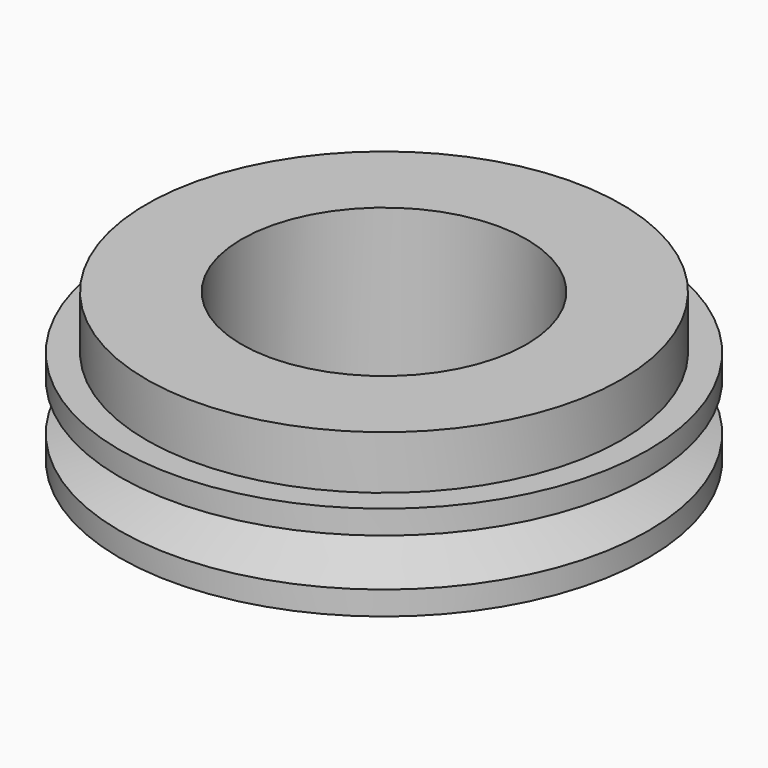
from build123d import *

# Parameters (mm, degrees)
F0_R     = 44.5
F0_R_2   = 40
F0_R_3   = 24
F1_DEPTH = 16
F2_DEPTH = 25


with BuildPart() as f1:
    # F0 (on Top) → F1 (new body)
    with BuildSketch(Plane.XY):
        Circle(F0_R)
        Circle(F0_R_2, mode=Mode.SUBTRACT)
        Circle(F0_R)
        Circle(F0_R_2, mode=Mode.SUBTRACT)
        Circle(F0_R_2)
        Circle(F0_R_3, mode=Mode.SUBTRACT)
    extrude(amount=F1_DEPTH)

    # F0 (on Top) → F2 (join)
    with BuildSketch(Plane.XY):
        Circle(F0_R_2)
        Circle(F0_R_3, mode=Mode.SUBTRACT)
    extrude(amount=F2_DEPTH)

    # F3 (on Front) → F4 (revolve, cut)
    with BuildSketch(Plane.XZ):
        Polygon((-34.8, 9.034412), (-44.5, 12), (-44.5, 4), (-34.8, 6.965588), align=None)
    revolve(axis=Axis((0, 0, -5.625665), (0, 0, -1)), mode=Mode.SUBTRACT)


solid = f1.part
